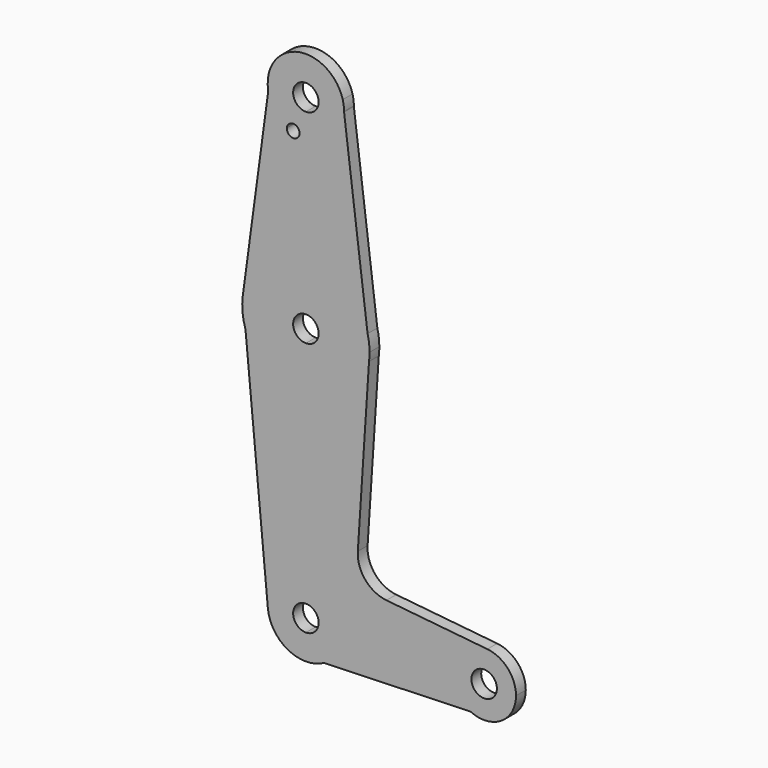
from build123d import *

# Parameters (mm, degrees)
F1_DEPTH = 3.048


with BuildPart() as f1:
    # F0 (on Front) → F1 (new body)
    with BuildSketch(Plane.XZ):
        with BuildLine():
            ThreePointArc((51.4599548688, 41.8597368751), (52.3964963174, 41.7189535535), (53.3423890313, 41.6718706229))
            ThreePointArc((53.3423890313, 41.6718706229), (60.0268570141, 44.4113335927), (62.8663165954, 51.0539414287))
            Line((62.8663165954, 51.0539414287), (62.5362597589, 53.6865224147))
            ThreePointArc((62.5362597589, 53.6865224147), (54.1895259594, 60.6841243891), (44.7350612413, 55.2760290306))
            Line((44.7350612413, 55.2760290306), (43.9613393662, 49.5471639272))
            ThreePointArc((43.9613393662, 49.5471639272), (45.5449252929, 45.7264790237), (48.598642298, 42.9371798338))
            ThreePointArc((48.598642298, 42.9371798338), (50.2492835996, 44.384966031), (51.7676148057, 42.7989736199))
            ThreePointArc((51.7676148057, 42.7989736199), (51.6887403971, 42.3048025211), (51.4599548688, 41.8597368751))
        make_face()
        with BuildLine():
            ThreePointArc((56.5173890313, 51.1968706229), (55.5874530616, 48.9518065926), (53.3423890313, 48.0218706229))
            ThreePointArc((53.3423890313, 48.0218706229), (51.097325001, 53.4419346531), (56.5173890313, 51.1968706229))
        make_face(mode=Mode.SUBTRACT)
        with BuildLine():
            ThreePointArc((62.8663165954, 51.0539414287), (60.0268570141, 44.4113335927), (53.3423890313, 41.6718706229))
            Line((53.3423890313, 41.6718706229), (53.3423890313, 16.2718706229))
            ThreePointArc((53.3423890313, 16.2718706229), (63.0840830867, 12.9314237434), (68.7260465584, 4.3158891339))
            Line((68.7260465584, 4.3158891339), (62.8663165954, 51.0539414287))
        make_face()
        with BuildLine():
            Line((53.3423890313, 16.2718706229), (53.3423890313, 41.6718706229))
            ThreePointArc((53.3423890313, 41.6718706229), (52.3964963174, 41.7189535535), (51.4599548688, 41.8597368751))
            ThreePointArc((51.4599548688, 41.8597368751), (49.6206808371, 41.3133121899), (48.598642298, 42.9371798338))
            ThreePointArc((48.598642298, 42.9371798338), (45.5449252929, 45.7264790237), (43.9613393662, 49.5471639272))
            Line((43.9613393662, 49.5471639272), (37.6102205796, 2.5216060902))
            ThreePointArc((37.6102205796, 2.5216060902), (42.8952494837, 12.349815878), (53.3423890313, 16.2718706229))
        make_face()
        with BuildLine():
            ThreePointArc((68.7260465584, 4.3158891339), (63.0840830867, 12.9314237434), (53.3423890313, 16.2718706229))
            Line((53.3423890313, 16.2718706229), (53.3423890313, 3.5718706229))
            ThreePointArc((53.3423890313, 3.5718706229), (55.5874530616, 2.6419346531), (56.5173890313, 0.3968706229))
            ThreePointArc((56.5173890313, 0.3968706229), (55.5874530616, -1.8481934074), (53.3423890313, -2.7781293771))
            Line((53.3423890313, -2.7781293771), (53.3423890313, -15.4781293771))
            ThreePointArc((53.3423890313, -15.4781293771), (63.8093075789, -11.5387584397), (69.0815080501, -1.6757503054))
            Line((69.0815080501, -1.6757503054), (69.2173890313, 0.3968706229))
            Line((69.2173890313, 0.3968706229), (68.7260465584, 4.3158891339))
        make_face()
        with BuildLine():
            Line((53.3423890313, 3.5718706229), (53.3423890313, 16.2718706229))
            ThreePointArc((53.3423890313, 16.2718706229), (42.8952494837, 12.349815878), (37.6102205796, 2.5216060902))
            Line((37.6102205796, 2.5216060902), (38.2812257131, -4.6207966144))
            ThreePointArc((38.2812257131, -4.6207966144), (44.0590664147, -12.4808444771), (53.3423890313, -15.4781293771))
            Line((53.3423890313, -15.4781293771), (53.3423890313, -2.7781293771))
            ThreePointArc((53.3423890313, -2.7781293771), (50.1673890313, 0.3968706229), (53.3423890313, 3.5718706229))
        make_face()
        with BuildLine():
            Line((62.5362597589, 53.6865224147), (62.8663165954, 51.0539414287))
            ThreePointArc((62.8663165954, 51.0539414287), (62.8671209185, 51.1254040141), (62.8673890313, 51.1968706229))
            ThreePointArc((62.8673890313, 51.1968706229), (62.7842438194, 52.4526584871), (62.5362597589, 53.6865224147))
        make_face()
        with BuildLine():
            ThreePointArc((69.2173890313, 0.3968706229), (69.0940744688, 2.3717202067), (68.7260465584, 4.3158891339))
            Line((68.7260465584, 4.3158891339), (69.2173890313, 0.3968706229))
        make_face()
        with BuildLine():
            Line((38.2812257131, -4.6207966144), (37.6102205796, 2.5216060902))
            ThreePointArc((37.6102205796, 2.5216060902), (37.5369849089, -1.0879948689), (38.2812257131, -4.6207966144))
        make_face()
        with BuildLine():
            ThreePointArc((69.0815080501, -1.6757503054), (69.1833823623, -0.6416645419), (69.2173890313, 0.3968706229))
            Line((69.2173890313, 0.3968706229), (69.0815080501, -1.6757503054))
        make_face()
        with BuildLine():
            ThreePointArc((53.3423890313, -15.4781293771), (44.0590664147, -12.4808444771), (38.2812257131, -4.6207966144))
            Line((38.2812257131, -4.6207966144), (43.8591465579, -63.9940486722))
            ThreePointArc((43.8591465579, -63.9940486722), (46.2992494158, -56.6906564254), (53.3423890313, -53.5781293771))
            Line((53.3423890313, -53.5781293771), (53.3423890313, -15.4781293771))
        make_face()
        with BuildLine():
            ThreePointArc((44.7350612413, 55.2760290306), (43.9030879603, 52.4717119033), (43.9613393662, 49.5471639272))
            Line((43.9613393662, 49.5471639272), (44.7350612413, 55.2760290306))
        make_face()
        with BuildLine():
            ThreePointArc((69.0815080501, -1.6757503054), (63.8093075789, -11.5387584397), (53.3423890313, -15.4781293771))
            Line((53.3423890313, -15.4781293771), (53.3423890313, -53.5781293771))
            ThreePointArc((53.3423890313, -53.5781293771), (60.0775811221, -56.3679372863), (62.8673890313, -63.1031293771))
            Line((62.8673890313, -63.1031293771), (89.8548890313, -63.1031293771))
            ThreePointArc((89.8548890313, -63.1031293771), (92.4691214945, -57.2152835078), (98.5898128692, -55.2057866929))
            Line((98.5898128692, -55.2057866929), (73.4258069796, -52.6648841444))
            ThreePointArc((73.4258069796, -52.6648841444), (68.1559044082, -49.8908327282), (66.2913372354, -44.2348073013))
            Line((66.2913372354, -44.2348073013), (69.0815080501, -1.6757503054))
        make_face()
        with BuildLine():
            ThreePointArc((53.3423890313, -53.5781293771), (46.2992494158, -56.6906564254), (43.8591465579, -63.9940486722))
            ThreePointArc((43.8591465579, -63.9940486722), (46.9299160795, -70.1462689926), (53.3423890313, -72.6281293771))
            Line((53.3423890313, -72.6281293771), (53.3423890313, -66.2781293771))
            ThreePointArc((53.3423890313, -66.2781293771), (50.1673890313, -63.1031293771), (53.3423890313, -59.9281293771))
            Line((53.3423890313, -59.9281293771), (53.3423890313, -53.5781293771))
        make_face()
        with BuildLine():
            Line((53.3423890313, -66.2781293771), (53.3423890313, -72.6281293771))
            ThreePointArc((53.3423890313, -72.6281293771), (55.6881815075, -72.3347534303), (57.889470238, -71.4726979144))
            ThreePointArc((57.889470238, -71.4726979144), (61.5288587678, -67.9721475793), (62.8673890313, -63.1031293771))
            Line((62.8673890313, -63.1031293771), (56.5173890313, -63.1031293771))
            ThreePointArc((56.5173890313, -63.1031293771), (55.5874530616, -65.3481934074), (53.3423890313, -66.2781293771))
        make_face()
        with BuildLine():
            Line((89.8548890313, -63.1031293771), (62.8673890313, -63.1031293771))
            ThreePointArc((62.8673890313, -63.1031293771), (61.5288587678, -67.9721475793), (57.889470238, -71.4726979144))
            Line((57.889470238, -71.4726979144), (94.4119032234, -70.2847880959))
            ThreePointArc((94.4119032234, -70.2847880959), (91.0902806932, -67.3558520433), (89.8548890313, -63.1031293771))
        make_face()
        with BuildLine():
            ThreePointArc((98.5898128692, -55.2057866929), (92.4691214945, -57.2152835078), (89.8548890313, -63.1031293771))
            ThreePointArc((89.8548890313, -63.1031293771), (91.0902806932, -67.3558520433), (94.4119032234, -70.2847880959))
            ThreePointArc((94.4119032234, -70.2847880959), (102.0451116974, -69.8052377152), (105.7298890313, -63.1031293771))
            ThreePointArc((105.7298890313, -63.1031293771), (103.6802349007, -57.7798618403), (98.5898128692, -55.2057866929))
        make_face()
        with BuildLine():
            ThreePointArc((100.9673890313, -63.1031293771), (97.7923890313, -66.2781293771), (94.6173890313, -63.1031293771))
            ThreePointArc((94.6173890313, -63.1031293771), (97.7923890313, -59.9281293771), (100.9673890313, -63.1031293771))
        make_face(mode=Mode.SUBTRACT)
        with BuildLine():
            ThreePointArc((62.8673890313, -63.1031293771), (60.0775811221, -56.3679372863), (53.3423890313, -53.5781293771))
            Line((53.3423890313, -53.5781293771), (53.3423890313, -59.9281293771))
            ThreePointArc((53.3423890313, -59.9281293771), (55.5874530616, -60.8580653469), (56.5173890313, -63.1031293771))
            Line((56.5173890313, -63.1031293771), (62.8673890313, -63.1031293771))
        make_face()
    extrude(amount=F1_DEPTH)


solid = f1.part
